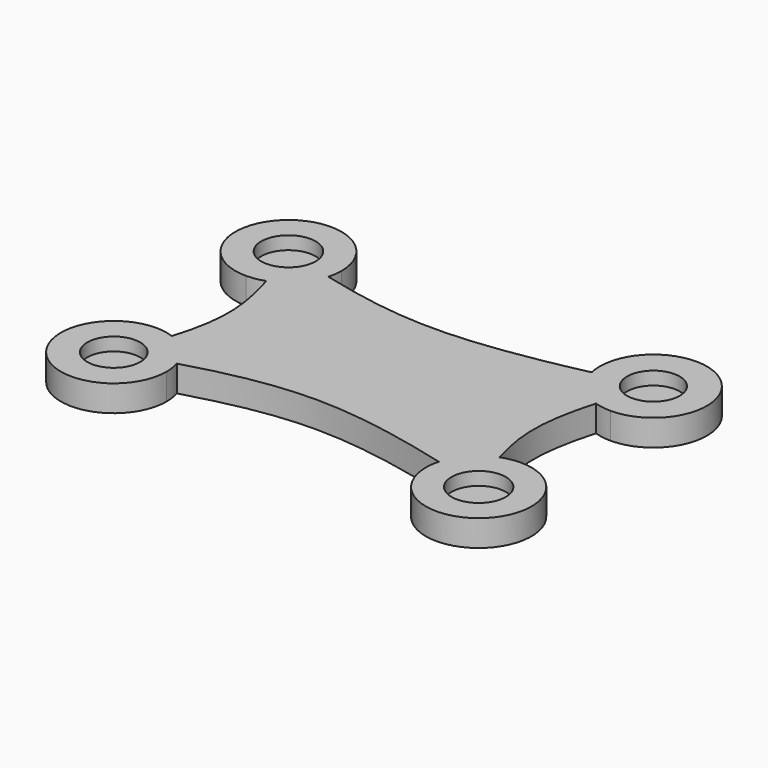
from build123d import *

# Parameters (mm, degrees)
F1_DEPTH = 12.7
F2_R     = 12.6899466908
F3_DEPTH = 6.35
F4_R     = 13.0916621451
F5_DEPTH = 6.35
F6_R     = 13.1338166207
F7_DEPTH = 6.35
F8_R     = 12.797635225
F9_DEPTH = 6.35


with BuildPart() as f1:
    # F0 (on Top) → F1 (new body)
    with BuildSketch(Plane.XY):
        with BuildLine():
            add(Edge.make_bspline(
                [(-97.9790315032, 57.3151484132), (-94.8917277119, 49.2634504814), (-91.8044239206, 41.2117525495), (-89.3433409519, 33.1833022823)],
                knots=[0, 0, 0, 0, 0.2258221369, 0.2258221369, 0.2258221369, 0.2258221369], degree=3))
            ThreePointArc((-89.3433409519, 33.1833022823), (-79.1894484696, 39.8832030713), (-73.2684448417, 50.5101461484))
            add(Edge.make_bspline(
                [(-97.9790315032, 57.3151484132), (-89.7678150487, 54.9705923246), (-81.5565985942, 52.6260362361), (-73.2684448417, 50.5101461484)],
                knots=[0, 0, 0, 0, 0.1532150424, 0.1532150424, 0.1532150424, 0.1532150424], degree=3))
        make_face()
        with BuildLine():
            Line((-72.348558449, 57.3151484132), (-97.9790315032, 57.3151484132))
            add(Edge.make_bspline(
                [(-97.9790315032, 57.3151484132), (-89.7678150487, 54.9705923246), (-81.5565985942, 52.6260362361), (-73.2684448417, 50.5101461484)],
                knots=[0, 0, 0, 0, 0.1532150424, 0.1532150424, 0.1532150424, 0.1532150424], degree=3))
            ThreePointArc((-73.2684448417, 50.5101461484), (-72.5795711294, 53.8817009183), (-72.348558449, 57.3151484132))
        make_face()
        with BuildLine():
            Line((-97.9790315032, 57.3151484132), (-97.9790315032, 31.684675359))
            ThreePointArc((-97.9790315032, 31.684675359), (-93.5966510441, 32.0621111604), (-89.3433409519, 33.1833022823))
            add(Edge.make_bspline(
                [(-97.9790315032, 57.3151484132), (-94.8917277119, 49.2634504814), (-91.8044239206, 41.2117525495), (-89.3433409519, 33.1833022823)],
                knots=[0, 0, 0, 0, 0.2258221369, 0.2258221369, 0.2258221369, 0.2258221369], degree=3))
        make_face()
        with BuildLine():
            ThreePointArc((-72.348558449, 57.3151484132), (-116.1025128048, 75.4386297148), (-97.9790315032, 31.684675359))
            Line((-97.9790315032, 31.684675359), (-97.9790315032, 57.3151484132))
            Line((-97.9790315032, 57.3151484132), (-72.348558449, 57.3151484132))
        make_face()
        with BuildLine():
            Line((-97.9790315032, -22.6032967451), (-97.9790315032, -48.1273792684))
            add(Edge.make_bspline(
                [(-89.1568913198, -24.1764162139), (-91.6474722391, -32.1767811704), (-94.8132518711, -40.1520802194), (-97.9790315032, -48.1273792684)],
                knots=[0.7697468516, 0.7697468516, 0.7697468516, 0.7697468516, 1, 1, 1, 1], degree=3))
            ThreePointArc((-89.1568913198, -24.1764162139), (-93.4983824911, -22.9996540812), (-97.9790315032, -22.6032967451))
        make_face()
        with BuildLine():
            add(Edge.make_bspline(
                [(-97.9790315032, -48.1273792684), (-89.8692523818, -45.5267859125), (-81.7594732605, -42.9261925567), (-73.6038589741, -40.5557379118)],
                knots=[0, 0, 0, 0, 0.1468762855, 0.1468762855, 0.1468762855, 0.1468762855], degree=3))
            Line((-97.9790315032, -48.1273792684), (-72.4549489799, -48.1273792684))
            ThreePointArc((-72.4549489799, -48.1273792684), (-72.7438110385, -44.2982231274), (-73.6038589741, -40.5557379118))
        make_face()
        with BuildLine():
            add(Edge.make_bspline(
                [(-89.1568913198, -24.1764162139), (-91.6474722391, -32.1767811704), (-94.8132518711, -40.1520802194), (-97.9790315032, -48.1273792684)],
                knots=[0.7697468516, 0.7697468516, 0.7697468516, 0.7697468516, 1, 1, 1, 1], degree=3))
            add(Edge.make_bspline(
                [(-97.9790315032, -48.1273792684), (-89.8692523818, -45.5267859125), (-81.7594732605, -42.9261925567), (-73.6038589741, -40.5557379118)],
                knots=[0, 0, 0, 0, 0.1468762855, 0.1468762855, 0.1468762855, 0.1468762855], degree=3))
            ThreePointArc((-73.6038589741, -40.5557379118), (-79.4699543341, -30.5520314482), (-89.1568913198, -24.1764162139))
        make_face()
        with BuildLine():
            Line((-72.4549489799, -48.1273792684), (-97.9790315032, -48.1273792684))
            Line((-97.9790315032, -48.1273792684), (-97.9790315032, -22.6032967451))
            ThreePointArc((-97.9790315032, -22.6032967451), (-116.027283339, -66.1756311042), (-72.4549489799, -48.1273792684))
        make_face()
        with BuildLine():
            ThreePointArc((69.2940983232, -24.2495217193), (59.3934172366, -30.9551926113), (53.638077891, -41.436870774))
            add(Edge.make_bspline(
                [(53.638077891, -41.436870774), (61.8198164822, -43.5633793037), (70.0325232507, -45.845379286), (78.2452300191, -48.1273792684)],
                knots=[0.8679259668, 0.8679259668, 0.8679259668, 0.8679259668, 1, 1, 1, 1], degree=3))
            add(Edge.make_bspline(
                [(78.2452300191, -48.1273792684), (75.0007191566, -40.2161005478), (71.7562082941, -32.3048218271), (69.2940983232, -24.2495217193)],
                knots=[0, 0, 0, 0, 0.2420801973, 0.2420801973, 0.2420801973, 0.2420801973], degree=3))
        make_face()
        with BuildLine():
            add(Edge.make_bspline(
                [(78.2452300191, -48.1273792684), (75.0007191566, -40.2161005478), (71.7562082941, -32.3048218271), (69.2940983232, -24.2495217193)],
                knots=[0, 0, 0, 0, 0.2420801973, 0.2420801973, 0.2420801973, 0.2420801973], degree=3))
            Line((78.2452300191, -48.1273792684), (78.2452300191, -22.6268922187))
            ThreePointArc((78.2452300191, -22.6268922187), (73.6967224305, -23.0358285294), (69.2940983232, -24.2495217193))
        make_face()
        with BuildLine():
            ThreePointArc((53.638077891, -41.436870774), (52.9690633404, -44.752436632), (52.7447429694, -48.1273792684))
            Line((52.7447429694, -48.1273792684), (78.2452300191, -48.1273792684))
            add(Edge.make_bspline(
                [(53.638077891, -41.436870774), (61.8198164822, -43.5633793037), (70.0325232507, -45.845379286), (78.2452300191, -48.1273792684)],
                knots=[0.8679259668, 0.8679259668, 0.8679259668, 0.8679259668, 1, 1, 1, 1], degree=3))
        make_face()
        with BuildLine():
            Line((78.2452300191, -48.1273792684), (52.7447429694, -48.1273792684))
            ThreePointArc((52.7447429694, -48.1273792684), (78.2452300191, -73.6278663181), (103.7457170688, -48.1273792684))
            ThreePointArc((103.7457170688, -48.1273792684), (96.2767973355, -30.095811952), (78.2452300191, -22.6268922187))
            Line((78.2452300191, -22.6268922187), (78.2452300191, -48.1273792684))
        make_face()
        with BuildLine():
            add(Edge.make_bspline(
                [(70.2099663174, 32.740651796), (72.5324991188, 40.8666400762), (75.388864569, 49.0908942447), (78.2452300191, 57.3151484132)],
                knots=[0.7809669753, 0.7809669753, 0.7809669753, 0.7809669753, 1, 1, 1, 1], degree=3))
            ThreePointArc((70.2099663174, 32.740651796), (74.1769173352, 31.782420814), (78.2452300191, 31.4603355779))
            Line((78.2452300191, 31.4603355779), (78.2452300191, 57.3151484132))
        make_face()
        with BuildLine():
            add(Edge.make_bspline(
                [(53.0309728344, 51.5956570573), (61.4062012949, 53.4144058383), (69.825715657, 55.3647771258), (78.2452300191, 57.3151484132)],
                knots=[0.8678396009, 0.8678396009, 0.8678396009, 0.8678396009, 1, 1, 1, 1], degree=3))
            ThreePointArc((53.0309728344, 51.5956570573), (59.1334413627, 39.9021968799), (70.2099663174, 32.740651796))
            add(Edge.make_bspline(
                [(70.2099663174, 32.740651796), (72.5324991188, 40.8666400762), (75.388864569, 49.0908942447), (78.2452300191, 57.3151484132)],
                knots=[0.7809669753, 0.7809669753, 0.7809669753, 0.7809669753, 1, 1, 1, 1], degree=3))
        make_face()
        with BuildLine():
            Line((78.2452300191, 57.3151484132), (52.3904171839, 57.3151484132))
            ThreePointArc((52.3904171839, 57.3151484132), (52.5510551244, 54.4375238324), (53.0309728344, 51.5956570573))
            add(Edge.make_bspline(
                [(53.0309728344, 51.5956570573), (61.4062012949, 53.4144058383), (69.825715657, 55.3647771258), (78.2452300191, 57.3151484132)],
                knots=[0.8678396009, 0.8678396009, 0.8678396009, 0.8678396009, 1, 1, 1, 1], degree=3))
        make_face()
        with BuildLine():
            ThreePointArc((104.1000428543, 57.3151484132), (78.2452300191, 83.1699612484), (52.3904171839, 57.3151484132))
            Line((52.3904171839, 57.3151484132), (78.2452300191, 57.3151484132))
            Line((78.2452300191, 57.3151484132), (78.2452300191, 31.4603355779))
            ThreePointArc((78.2452300191, 31.4603355779), (96.5273435012, 39.0330349311), (104.1000428543, 57.3151484132))
        make_face()
        with BuildLine():
            add(Edge.make_bspline(
                [(-89.3433409519, 33.1833022823), (-86.3089203393, 23.2845319899), (-82.2407796779, 4.0159084283), (-86.2851127622, -14.9515496945), (-89.1568913198, -24.1764162139)],
                knots=[0.2258221369, 0.2258221369, 0.2258221369, 0.2258221369, 0.5042521434, 0.7697468516, 0.7697468516, 0.7697468516, 0.7697468516], degree=3))
            ThreePointArc((-89.1568913198, -24.1764162139), (-79.4699543341, -30.5520314482), (-73.6038589741, -40.5557379118))
            add(Edge.make_bspline(
                [(-73.6038589741, -40.5557379118), (-55.0144907829, -35.1526802602), (-14.4638072494, -26.0907707686), (29.7094018219, -35.2175894809), (53.638077891, -41.436870774)],
                knots=[0.1468762855, 0.1468762855, 0.1468762855, 0.1468762855, 0.4816563834, 0.8679259668, 0.8679259668, 0.8679259668, 0.8679259668], degree=3))
            ThreePointArc((53.638077891, -41.436870774), (59.3934172366, -30.9551926113), (69.2940983232, -24.2495217193))
            add(Edge.make_bspline(
                [(69.2940983232, -24.2495217193), (66.8796393942, -16.350121814), (63.1067862028, 1.895913691), (67.0130764735, 21.5554967842), (70.2099663174, 32.740651796)],
                knots=[0.2420801973, 0.2420801973, 0.2420801973, 0.2420801973, 0.4794752368, 0.7809669753, 0.7809669753, 0.7809669753, 0.7809669753], degree=3))
            ThreePointArc((70.2099663174, 32.740651796), (59.1334413627, 39.9021968799), (53.0309728344, 51.5956570573))
            add(Edge.make_bspline(
                [(-73.2684448417, 50.5101461484), (-55.9796971344, 46.0964864848), (-16.5735995756, 38.4523299071), (27.9976145113, 46.1594602838), (53.0309728344, 51.5956570573)],
                knots=[0.1532150424, 0.1532150424, 0.1532150424, 0.1532150424, 0.4728153168, 0.8678396009, 0.8678396009, 0.8678396009, 0.8678396009], degree=3))
            ThreePointArc((-73.2684448417, 50.5101461484), (-79.1894484696, 39.8832030713), (-89.3433409519, 33.1833022823))
        make_face()
    extrude(amount=F1_DEPTH)

    # F2 (on face) → F3 (cut)
    with BuildSketch(Plane.XY.offset(12.7)):
        with Locations((78.2452300191, 57.3151484132)):
            Circle(F2_R)
    extrude(amount=-F3_DEPTH, mode=Mode.SUBTRACT)

    # F4 (on face) → F5 (cut)
    with BuildSketch(Plane.XY.offset(12.7)):
        with Locations((78.2452300191, -48.1273792684)):
            Circle(F4_R)
    extrude(amount=-F5_DEPTH, mode=Mode.SUBTRACT)

    # F6 (on face) → F7 (cut)
    with BuildSketch(Plane.XY.offset(12.7)):
        with Locations((-97.9790315032, 57.3151484132)):
            Circle(F6_R)
    extrude(amount=-F7_DEPTH, mode=Mode.SUBTRACT)

    # F8 (on face) → F9 (cut)
    with BuildSketch(Plane.XY.offset(12.7)):
        with Locations((-97.9790315032, -48.1273792684)):
            Circle(F8_R)
    extrude(amount=-F9_DEPTH, mode=Mode.SUBTRACT)


solid = f1.part
